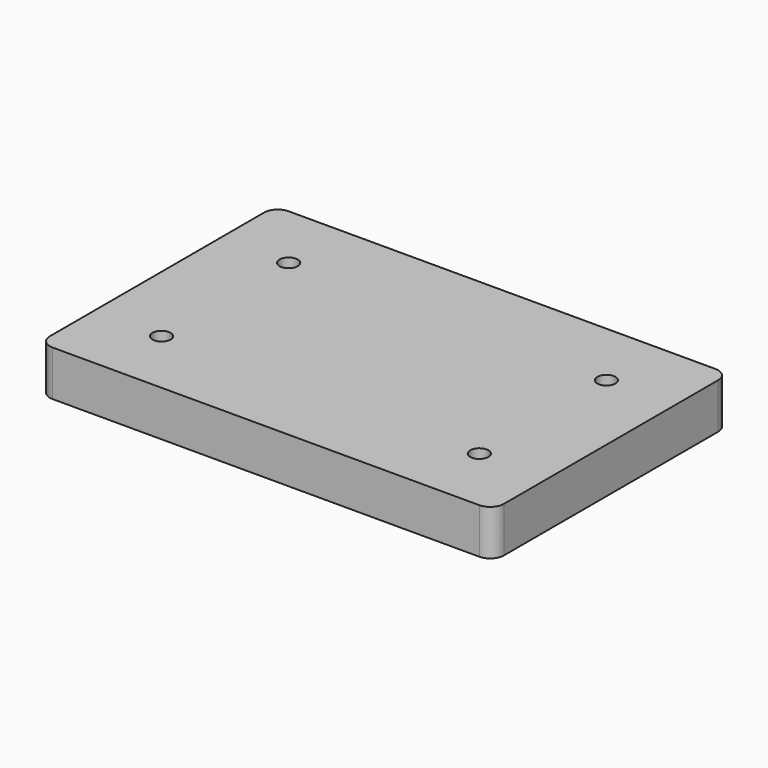
from build123d import *

# Parameters (mm, degrees)
SKETCH_W  = 100
SKETCH_H  = 65
SKETCH_R  = 2
PAD_DEPTH = 10
FILLET_R  = 3


with BuildPart() as part:
    # Sketch → Pad (new body)
    with BuildSketch(Plane.XY):
        with Locations((50, 32.5)):
            Rectangle(SKETCH_W, SKETCH_H)
        with Locations((15, 50)):
            Circle(SKETCH_R, mode=Mode.SUBTRACT)
        with Locations((15, 15)):
            Circle(SKETCH_R, mode=Mode.SUBTRACT)
        with Locations((85, 50)):
            Circle(SKETCH_R, mode=Mode.SUBTRACT)
        with Locations((85, 15)):
            Circle(SKETCH_R, mode=Mode.SUBTRACT)
    extrude(amount=PAD_DEPTH)

    # Fillet
    fillet_edges = [part.edges().sort_by_distance(p)[0] for p in [
        (100, 0, 5),
        (0, 0, 5),
        (100, 65, 5),
        (0, 65, 5),
    ]]
    fillet(fillet_edges, radius=FILLET_R)


solid = part.part
